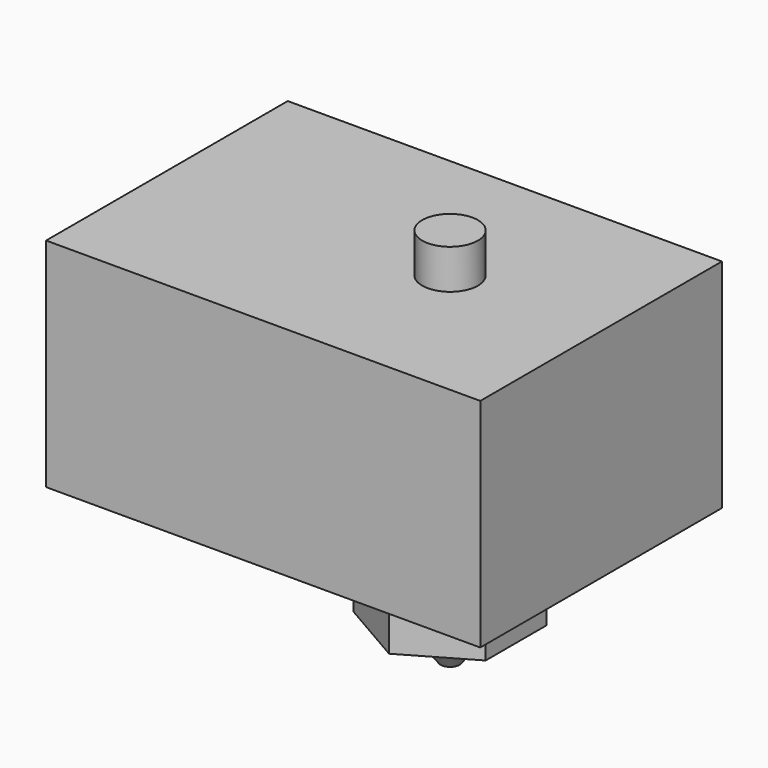
from build123d import *

# Parameters (mm, degrees)
F0_R     = 1.475
F1_DEPTH = 2.1
F0_W     = 23
F0_H     = 16
F2_DEPTH = 11.5
F3_R     = 2.5
F4_DEPTH = 1.5
F6_DEPTH = 3
F7_R     = 2
F9_R     = 0.5


with BuildPart() as f1:
    # F0 (on Top) → F1 (new body)
    with BuildSketch(Plane.XY):
        Circle(F0_R)
    extrude(amount=F1_DEPTH)

    # F0 (on Top) → F2 (join)
    with BuildSketch(Plane.XY):
        with Locations((-3.5, 0)):
            Rectangle(F0_W, F0_H)
        Circle(F0_R, mode=Mode.SUBTRACT)
        Circle(F0_R)
    extrude(amount=-F2_DEPTH)

    # F3 (on face) → F4 (join)
    with BuildSketch(Plane(origin=(0, 0, -11.5), x_dir=(1, 0, 0), z_dir=(0, 0, -1))):
        Circle(F3_R)
    extrude(amount=F4_DEPTH)

    # F5 (on face) → F6 (join)
    with BuildSketch(Plane(origin=(0, 0, -13), x_dir=(1, 0, 0), z_dir=(0, 0, -1))):
        Polygon((3.5, -2.0207259422), (3.5, 2.0207259422), (0, 4.0414518843), (-3.5, 2.0207259422), (-3.5, -2.0207259422), (0, -4.0414518843), align=None)
    extrude(amount=F6_DEPTH)

    # F7 (on face) → F10 section 0
    with BuildSketch(Plane(origin=(0, 0, -16), x_dir=(1, 0, 0), z_dir=(0, 0, -1))):
        Circle(F7_R)
    # F9 (on offset) → F10 section 1
    with BuildSketch(Plane(origin=(0, 0, -18), x_dir=(1, 0, 0), z_dir=(0, 0, -1))):
        Circle(F9_R)
    loft()


solid = f1.part
